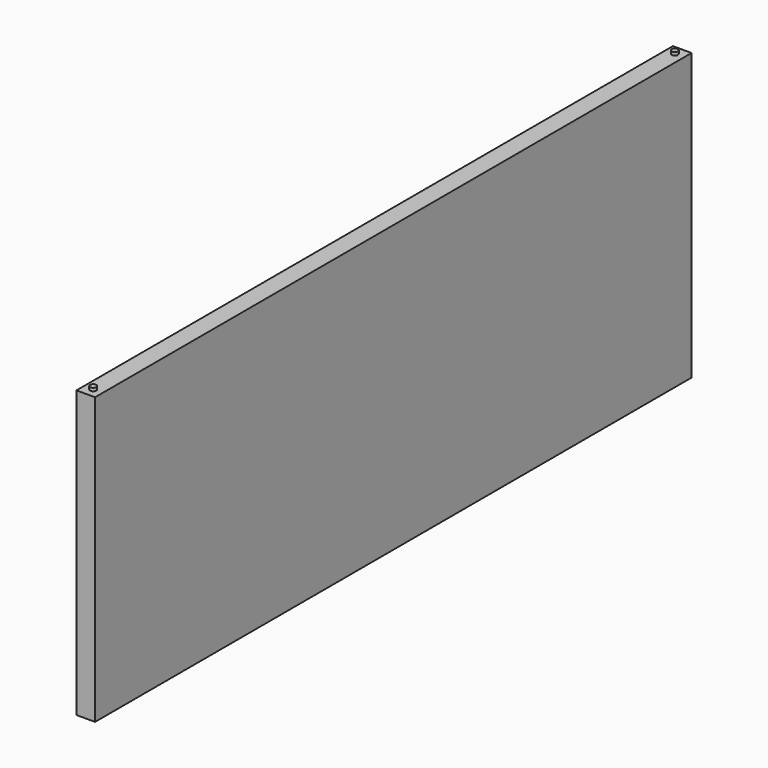
from build123d import *

# Parameters (mm, degrees)
F0_W     = 152.4
F0_H     = 6096
F1_DEPTH = 2336.8
F3_DEPTH = 25.4
F5_DEPTH = 25.4


with BuildPart() as f1:
    # F0 (on Top) → F1 (new body)
    with BuildSketch(Plane.XY):
        Rectangle(F0_W, F0_H)
    extrude(amount=F1_DEPTH)

    # F2 (on face) → F3 (join)
    with BuildSketch(Plane(origin=(0, 0, 0), x_dir=(1, 0, 0), z_dir=(0, 0, -1))):
        with BuildLine():
            Line((0, 2971.8), (25.4, 2971.8))
            ThreePointArc((25.4, 2971.8), (17.960512, 2989.760512), (0, 2997.2))
            Line((0, 2997.2), (0, 2971.8))
        make_face()
        with BuildLine():
            ThreePointArc((0, 2997.2), (-17.960512, 2953.839488), (25.4, 2971.8))
            Line((25.4, 2971.8), (0, 2971.8))
            Line((0, 2971.8), (0, 2997.2))
        make_face()
        with BuildLine():
            ThreePointArc((25.4, -2971.8), (-17.960512, -2953.839488), (0, -2997.2))
            Line((0, -2997.2), (0, -2971.8))
            Line((0, -2971.8), (25.4, -2971.8))
        make_face()
        with BuildLine():
            Line((0, -2971.8), (0, -2997.2))
            ThreePointArc((0, -2997.2), (17.960512, -2989.760512), (25.4, -2971.8))
            Line((25.4, -2971.8), (0, -2971.8))
        make_face()
    extrude(amount=F3_DEPTH)

    # F4 (on face) → F5 (join)
    with BuildSketch(Plane.XY.offset(2336.8)):
        with BuildLine():
            ThreePointArc((25.4, 2971.8), (17.960512, 2989.760512), (0, 2997.2))
            Line((0, 2997.2), (0, 2971.8))
            Line((0, 2971.8), (25.4, 2971.8))
        make_face()
        with BuildLine():
            Line((0, 2971.8), (0, 2997.2))
            ThreePointArc((0, 2997.2), (-17.960512, 2953.839488), (25.4, 2971.8))
            Line((25.4, 2971.8), (0, 2971.8))
        make_face()
        with BuildLine():
            ThreePointArc((0, -2997.2), (17.960512, -2989.760512), (25.4, -2971.8))
            Line((25.4, -2971.8), (0, -2971.8))
            Line((0, -2971.8), (0, -2997.2))
        make_face()
        with BuildLine():
            Line((0, -2971.8), (25.4, -2971.8))
            ThreePointArc((25.4, -2971.8), (-17.960512, -2953.839488), (0, -2997.2))
            Line((0, -2997.2), (0, -2971.8))
        make_face()
    extrude(amount=F5_DEPTH)


solid = f1.part
